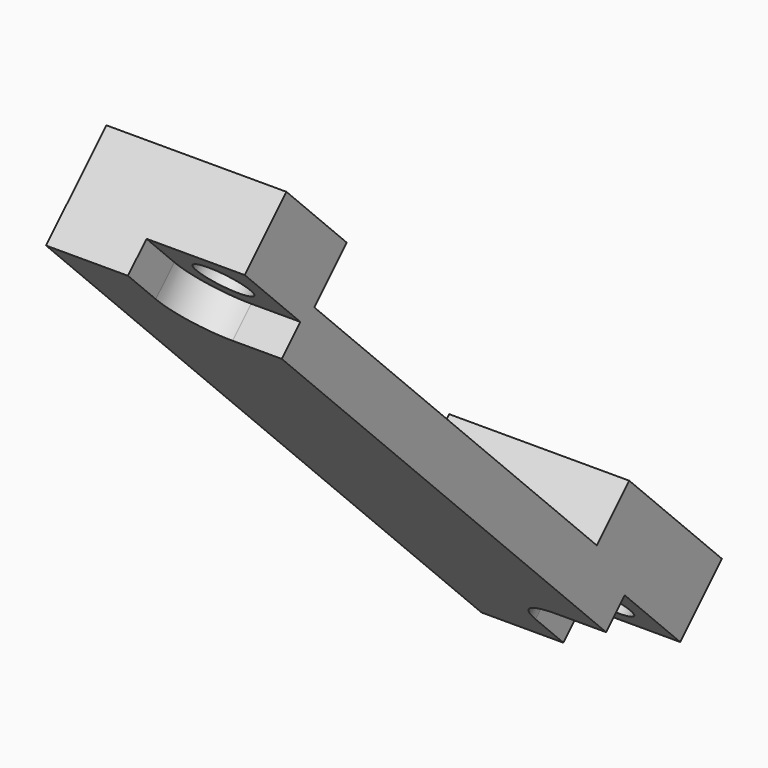
from build123d import *

# Parameters (mm, degrees)
BOX021003_W                        = 6
BOX021003_H                        = 6
BOX021003_DEPTH                    = 2
FILLET_R                           = 3
BOX021002_W                        = 6
BOX021002_H                        = 6
BOX021002_DEPTH                    = 2
FILLET001_R                        = 3
CYLINDER010_R                      = 1.65
CYLINDER010_DEPTH                  = 10
CYLINDER011_R                      = 1.65
CYLINDER011_DEPTH                  = 10
BOX018_W                           = 11
BOX018_H                           = 10
BOX018_DEPTH                       = 3.5
BOX017_W                           = 11
BOX017_H                           = 6.5
BOX017_DEPTH                       = 3.5
BOX016_W                           = 11
BOX016_H                           = 47
BOX016_DEPTH                       = 3
CUT004005004004_PLACEMENT_ANGLE    = 180
CUT004005004003002_ROLL_ANGLE      = 45
CUT004005004003002_PLACEMENT_ANGLE = 180


with BuildPart() as fillet_body:
    # Box021003 → Box021003 (new body)
    with BuildSketch(Plane(origin=(0, -47, -3), x_dir=(1, 0, 0), z_dir=(0, 0, 1))):
        with Locations((3, 3)):
            Rectangle(BOX021003_W, BOX021003_H)
    extrude(amount=BOX021003_DEPTH)

    # Fillet
    fillet_edges = [fillet_body.edges().sort_by_distance(p)[0] for p in [
        (6, -41, -2),
    ]]
    fillet(fillet_edges, radius=FILLET_R)


with BuildPart() as fusion003007005:
    # Box021002 → Box021002 (new body)
    with BuildSketch(Plane(origin=(0, -6, -3), x_dir=(1, 0, 0), z_dir=(0, 0, 1))):
        with Locations((3, 3)):
            Rectangle(BOX021002_W, BOX021002_H)
    extrude(amount=BOX021002_DEPTH)

    # Fillet001
    fillet001_edges = [fusion003007005.edges().sort_by_distance(p)[0] for p in [
        (6, -6, -2),
    ]]
    fillet(fillet001_edges, radius=FILLET001_R)

    # Fusion003007005: union Fillet body
    add(fillet_body.part)


with BuildPart() as cylinder010:
    # Cylinder010 → Cylinder010 (new body)
    with BuildSketch(Plane(origin=(3, 3, 0), x_dir=(1, 0, 0), z_dir=(0, 0, 1))):
        Circle(CYLINDER010_R)
    extrude(amount=CYLINDER010_DEPTH)


with BuildPart() as fusion003007003:
    # Cylinder011 → Cylinder011 (new body)
    with BuildSketch(Plane(origin=(3, 44, 0), x_dir=(1, 0, 0), z_dir=(0, 0, 1))):
        Circle(CYLINDER011_R)
    extrude(amount=CYLINDER011_DEPTH)

    # Fusion003007003: union Cylinder010
    add(cylinder010.part)


with BuildPart() as fusion003007003_1:
    # Fusion003007003 placement: moved
    add(fusion003007003.part.moved(Location((0, 0, -6))))


with BuildPart() as cube015:
    # Box018 → Box018 (new body)
    with BuildSketch(Plane(origin=(0, 37, -3.5), x_dir=(1, 0, 0), z_dir=(0, 0, 1))):
        with Locations((5.5, 5)):
            Rectangle(BOX018_W, BOX018_H)
    extrude(amount=BOX018_DEPTH)


with BuildPart() as cube014:
    # Box017 → Box017 (new body)
    with BuildSketch(Plane.XY.offset(-3.5)):
        with Locations((5.5, 3.25)):
            Rectangle(BOX017_W, BOX017_H)
    extrude(amount=BOX017_DEPTH)


with BuildPart() as cut004005004003002:
    # Box016 → Box016 (new body)
    with BuildSketch(Plane.XY):
        with Locations((5.5, 23.5)):
            Rectangle(BOX016_W, BOX016_H)
    extrude(amount=BOX016_DEPTH)

    # Fusion003007004: union Cube015, Cube014
    add(cube015.part)
    add(cube014.part)

    # Cut004005004004: cut Fusion003007003
    add(fusion003007003_1.part, mode=Mode.SUBTRACT)


with BuildPart() as cut004005004003002_1:
    # Cut004005004004 placement: moved
    add(cut004005004003002.part.rotate(Axis((0, 0, 0), (1, 0, 0)), CUT004005004004_PLACEMENT_ANGLE))

    # Cut004005004003002: cut Fusion003007005
    add(fusion003007005.part, mode=Mode.SUBTRACT)


with BuildPart() as cut004005004003002_2:
    # Cut004005004003002 roll: moved
    add(cut004005004003002_1.part.rotate(Axis((0, 0, 0), (1, 0, 0)), CUT004005004003002_ROLL_ANGLE))


with BuildPart() as cut004005004003002_3:
    # Cut004005004003002 placement: moved
    add(cut004005004003002_2.part.rotate(Axis((0, 0, 0), (0, 0, 1)), CUT004005004003002_PLACEMENT_ANGLE))


solid = cut004005004003002_3.part
